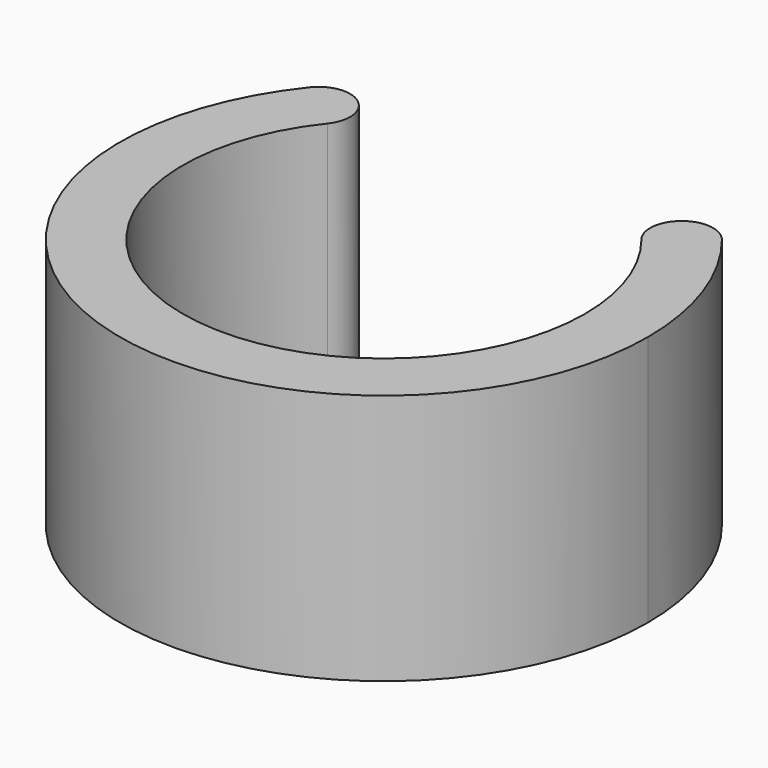
from build123d import *

# Parameters (mm, degrees)
F1_DEPTH = 10


with BuildPart() as f1:
    # F0 (on Top) → F1 (new body)
    with BuildSketch(Plane.XY):
        with BuildLine():
            ThreePointArc((6.244998, 5), (7.548509, 2.64953), (8, 0))
            ThreePointArc((8, 0), (-2.64953, -7.548509), (-6.244998, 5))
            Line((-6.244998, 5), (-8.19656, 6.5625))
            ThreePointArc((-8.19656, 6.5625), (-3.477508, -9.907418), (10.5, 0))
            ThreePointArc((10.5, 0), (9.907418, 3.477508), (8.19656, 6.5625))
            Line((8.19656, 6.5625), (6.244998, 5))
        make_face()
        with BuildLine():
            Line((-8.19656, 6.5625), (-6.244998, 5))
            ThreePointArc((-6.244998, 5), (-6.439529, 6.757031), (-8.19656, 6.5625))
        make_face()
        with BuildLine():
            ThreePointArc((6.244998, 5), (7.548509, 2.64953), (8, 0))
            ThreePointArc((8, 0), (-2.64953, -7.548509), (-6.244998, 5))
            Line((-6.244998, 5), (-8.19656, 6.5625))
            ThreePointArc((-8.19656, 6.5625), (-3.477508, -9.907418), (10.5, 0))
            ThreePointArc((10.5, 0), (9.907418, 3.477508), (8.19656, 6.5625))
            Line((8.19656, 6.5625), (6.244998, 5))
        make_face()
        with BuildLine():
            ThreePointArc((6.244998, 5), (7.548509, 2.64953), (8, 0))
            ThreePointArc((8, 0), (-2.64953, -7.548509), (-6.244998, 5))
            Line((-6.244998, 5), (-8.19656, 6.5625))
            ThreePointArc((-8.19656, 6.5625), (-3.477508, -9.907418), (10.5, 0))
            ThreePointArc((10.5, 0), (9.907418, 3.477508), (8.19656, 6.5625))
            Line((8.19656, 6.5625), (6.244998, 5))
        make_face()
        with BuildLine():
            ThreePointArc((8.19656, 6.5625), (6.439529, 6.757031), (6.244998, 5))
            Line((6.244998, 5), (8.19656, 6.5625))
        make_face()
    extrude(amount=F1_DEPTH)


solid = f1.part
